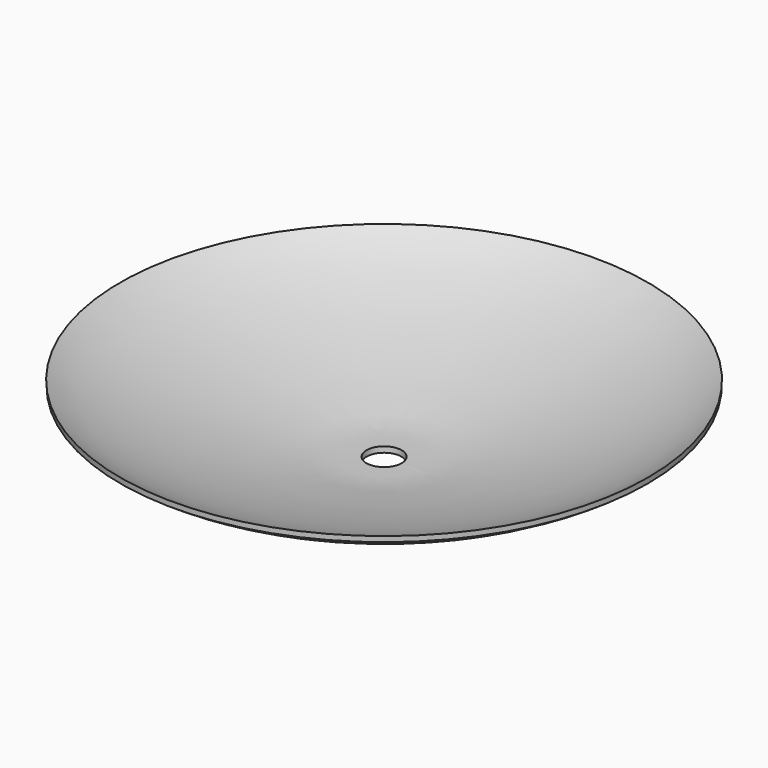
from build123d import *


with BuildPart() as f2:
    # F0 (on Front) → F2 (revolve)
    with BuildSketch(Plane.XZ):
        with BuildLine():
            add(Edge.make_bspline(
                [(50.8, 0), (132.5645715683, 0.7016602982), (177.9105574839, 1.3228668223), (617.6527222398, 92.9107069706), (762, 194.8820501566)],
                knots=[0, 0, 0, 0, 0.3442887085, 1, 1, 1, 1], degree=3))
            Line((50.8, 0), (49.8733153623, -15.8636606633))
            add(Edge.make_bspline(
                [(49.8733153623, -15.8636606633), (131.6378869306, -15.1620003651), (176.9838728463, -14.540793841), (616.7260376022, 77.0470463073), (761.0733153623, 179.0183894933)],
                knots=[0, 0, 0, 0, 0.3442887085, 1, 1, 1, 1], degree=3))
            Line((761.0733153623, 179.0183894933), (762, 194.8820501566))
        make_face()
    revolve(axis=Axis((0, 0, 105.5517941713), (0, 0, 1)))


solid = f2.part
